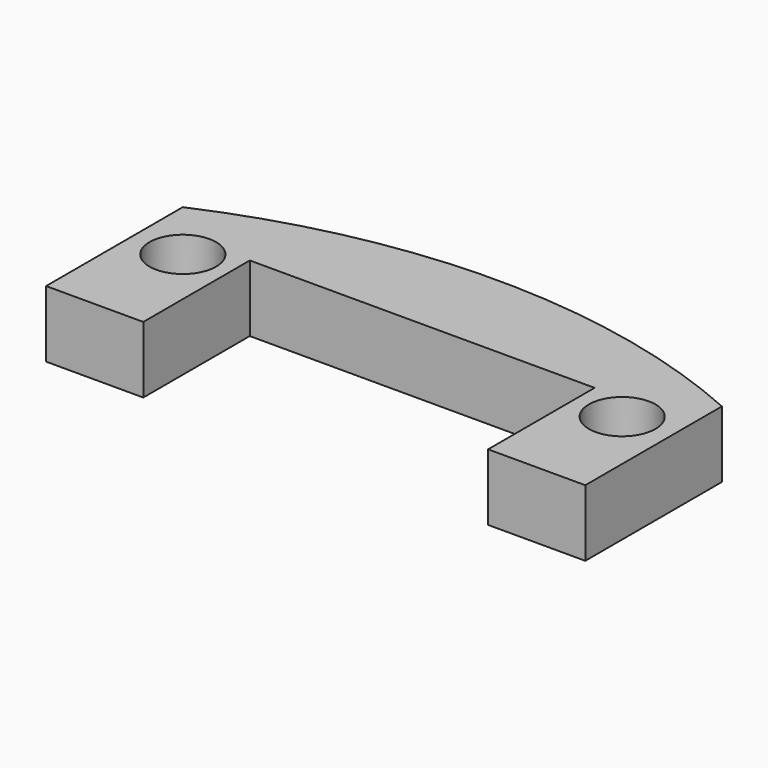
from build123d import *

# Parameters (mm, degrees)
F0_R     = 2.5
F1_DEPTH = 5


with BuildPart() as f1:
    # F0 (on Top) → F1 (new body)
    with BuildSketch(Plane.XY):
        with BuildLine():
            Line((20.25, 32.886834), (20.25, 45.715834))
            ThreePointArc((20.25, 45.715834), (0, 50), (-20.25, 45.715834))
            Line((-20.25, 45.715834), (-20.25, 32.886834))
            Line((-20.25, 32.886834), (-12.95, 32.886834))
            Line((-12.95, 32.886834), (-12.95, 42.886834))
            Line((-12.95, 42.886834), (12.95, 42.886834))
            Line((12.95, 42.886834), (12.95, 32.886834))
            Line((12.95, 32.886834), (20.25, 32.886834))
        make_face()
        with Locations((-16.5, 41.038834)):
            Circle(F0_R, mode=Mode.SUBTRACT)
        with Locations((16.5, 41.038834)):
            Circle(F0_R, mode=Mode.SUBTRACT)
        with BuildLine():
            Line((20.25, 32.886834), (20.25, 45.715834))
            ThreePointArc((20.25, 45.715834), (0, 50), (-20.25, 45.715834))
            Line((-20.25, 45.715834), (-20.25, 32.886834))
            Line((-20.25, 32.886834), (-12.95, 32.886834))
            Line((-12.95, 32.886834), (-12.95, 42.886834))
            Line((-12.95, 42.886834), (12.95, 42.886834))
            Line((12.95, 42.886834), (12.95, 32.886834))
            Line((12.95, 32.886834), (20.25, 32.886834))
        make_face()
        with Locations((-16.5, 41.038834)):
            Circle(F0_R, mode=Mode.SUBTRACT)
        with Locations((16.5, 41.038834)):
            Circle(F0_R, mode=Mode.SUBTRACT)
    extrude(amount=F1_DEPTH)


solid = f1.part
